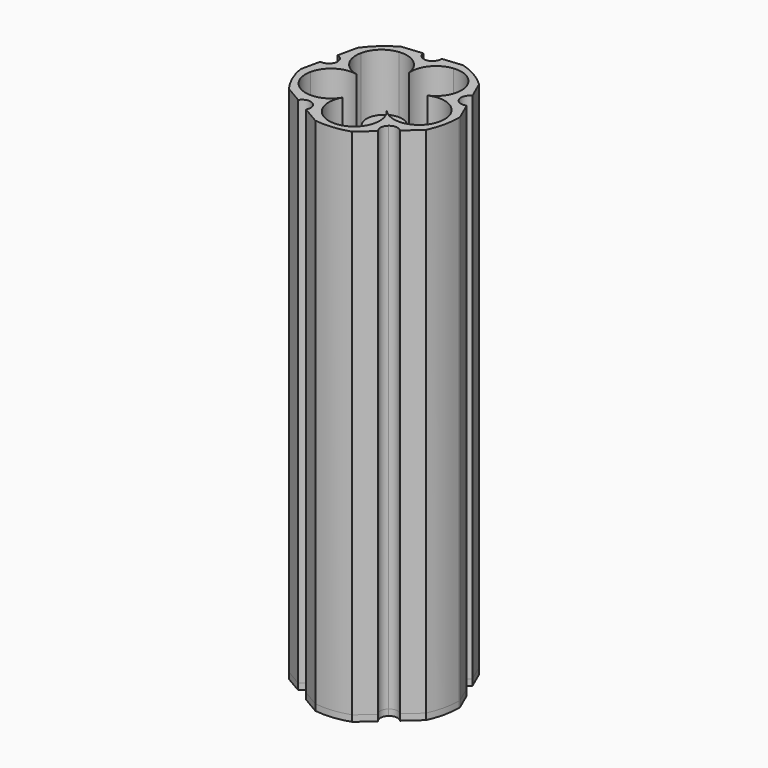
from build123d import *

# Parameters (mm, degrees)
F1_DEPTH = 83
F2_DEPTH = 1
F3_DEPTH = 78


with BuildPart() as f1:
    # F0 (on Top) → F1 (new body)
    with BuildSketch(Plane.XY):
        with BuildLine():
            Line((-10.3950891863, -1.9186980107), (-9.5171950704, 2.0862116958))
            ThreePointArc((-9.5171950704, 2.0862116958), (-10.1215255896, 1.2187611374), (-11.1622319686, 1.0327071659))
            Line((-11.1622319686, 1.0327071659), (-11.8627554285, -2.163046346))
            ThreePointArc((-11.8627554285, -2.163046346), (-11.0467790087, -4.8345019791), (-9.6380226836, -7.2465339717))
            Line((-9.6380226836, -7.2465339717), (-6.8151541357, -8.900313518))
            ThreePointArc((-6.8151541357, -8.900313518), (-5.9723446863, -8.2620673961), (-4.9250802493, -8.4067155171))
            Line((-4.9250802493, -8.4067155171), (-8.4626915502, -6.3342034206))
            ThreePointArc((-8.4626915502, -6.3342034206), (-10.1462327065, -4.4403877421), (-10.3950891863, -1.9186980107))
        make_face()
        with BuildLine():
            Line((-1.3874689708, -10.4792276005), (-4.9250802493, -8.4067155171))
            ThreePointArc((-4.9250802493, -8.4067155171), (-4.4248837763, -8.9117006172), (-4.2420111599, -9.5985514519))
            ThreePointArc((-4.2420111599, -9.5985514519), (-4.290220206, -9.9602956665), (-4.431482253, -10.2967893857))
            Line((-4.431482253, -10.2967893857), (-1.6086137051, -11.950568932))
            ThreePointArc((-1.6086137051, -11.950568932), (1.1842421634, -12.0000544311), (3.9135505529, -11.405606425))
            Line((3.9135505529, -11.405606425), (6.3587027212, -9.2319448826))
            ThreePointArc((6.3587027212, -9.2319448826), (6.0121370154, -8.2331568272), (6.4733276858, -7.2818479742))
            Line((6.4733276858, -7.2818479742), (3.4090699315, -10.005874447))
            ThreePointArc((3.4090699315, -10.005874447), (1.0877013618, -11.0217960053), (-1.3874689708, -10.4792276005))
        make_face()
        with BuildLine():
            ThreePointArc((-2.8525682403, -4.8691043398), (-5.3541979477, -6.7635484333), (-8.4626915502, -6.3342034206))
            Line((-8.4626915502, -6.3342034206), (-4.9250802493, -8.4067155171))
            Line((-4.9250802493, -8.4067155171), (-1.3874689708, -10.4792276005))
            ThreePointArc((-1.3874689708, -10.4792276005), (-3.2819131484, -7.9775979567), (-2.8525682403, -4.8691043398))
        make_face()
        with BuildLine():
            ThreePointArc((9.537586204, -4.5578208223), (6.5729795774, -5.5864982283), (3.7493013379, -4.2175895912))
            ThreePointArc((3.7493013379, -4.2175895912), (4.5173700035, -5.4844716194), (4.7850431192, -6.9416163107))
            ThreePointArc((4.7850431192, -6.9416163107), (4.4252643647, -8.6211236893), (3.4090699315, -10.005874447))
            Line((3.4090699315, -10.005874447), (6.4733276858, -7.2818479742))
            Line((6.4733276858, -7.2818479742), (9.537586204, -4.5578208223))
        make_face()
        with BuildLine():
            Line((8.9258170342, 3.9062861541), (7.2820214155, 7.6623394177))
            ThreePointArc((7.2820214155, 7.6623394177), (7.5390603878, 6.8582406834), (7.6259681692, 6.0185438065))
            ThreePointArc((7.6259681692, 6.0185438065), (6.9574082172, 3.7746143965), (5.1697636829, 2.2624905175))
            ThreePointArc((5.1697636829, 2.2624905175), (8.3071510394, 2.3247070778), (10.5696126379, 0.1502329252))
            Line((10.5696126379, 0.1502329252), (8.9258170342, 3.9062861541))
        make_face()
        with BuildLine():
            Line((-0.9568697851, 9.6960652567), (-5.0370494624, 9.2934070157))
            ThreePointArc((-5.0370494624, 9.2934070157), (-2.0339908159, 8.3830723867), (-0.5542115132, 5.6158854419))
            ThreePointArc((-0.5542115132, 5.6158854419), (0.3561230261, 8.6189441157), (3.1233099266, 10.098723501))
            Line((3.1233099266, 10.098723501), (-0.9568697851, 9.6960652567))
        make_face()
        with BuildLine():
            ThreePointArc((-5.5122853186, 1.2083175905), (-8.0870549248, 3.0020933722), (-8.6393009458, 6.0911214414))
            Line((-8.6393009458, 6.0911214414), (-9.5171950704, 2.0862116958))
            Line((-9.5171950704, 2.0862116958), (-10.3950891863, -1.9186980107))
            ThreePointArc((-10.3950891863, -1.9186980107), (-8.6013133908, 0.6560715859), (-5.5122853186, 1.2083175905))
        make_face()
        with BuildLine():
            ThreePointArc((-8.6393009458, 6.0911214414), (-7.3584180322, 8.2774854574), (-5.0370494624, 9.2934070157))
            Line((-5.0370494624, 9.2934070157), (-0.9568697851, 9.6960652567))
            ThreePointArc((-0.9568697851, 9.6960652567), (-1.9686126936, 10.0027607695), (-2.4671564939, 10.9350375146))
            Line((-2.4671564939, 10.9350375146), (-5.72297235, 10.6137327709))
            ThreePointArc((-5.72297235, 10.6137327709), (-8.011527057, 9.0121678894), (-9.8701761557, 6.9270021298))
            Line((-9.8701761557, 6.9270021298), (-10.5706996156, 3.7312486179))
            ThreePointArc((-10.5706996156, 3.7312486179), (-9.7902332374, 3.2478489051), (-9.4851587577, 2.3819778919))
            ThreePointArc((-9.4851587577, 2.3819778919), (-9.4931911905, 2.2332298095), (-9.5171950704, 2.0862116958))
            Line((-9.5171950704, 2.0862116958), (-8.6393009458, 6.0911214414))
        make_face()
        with BuildLine():
            ThreePointArc((0.2887800316, 11.0706947495), (-0.0689564404, 10.1431644658), (-0.9568697851, 9.6960652567))
            Line((-0.9568697851, 9.6960652567), (3.1233099266, 10.098723501))
            ThreePointArc((3.1233099266, 10.098723501), (5.5984802592, 9.5561550962), (7.2820214155, 7.6623394177))
            Line((7.2820214155, 7.6623394177), (8.9258170342, 3.9062861541))
            ThreePointArc((8.9258170342, 3.9062861541), (8.9048560265, 4.9632849819), (9.6374453998, 5.7255176864))
            Line((9.6374453998, 5.7255176864), (8.3257639995, 8.722693946))
            ThreePointArc((8.3257639995, 8.722693946), (6.0953829856, 10.404328047), (3.5379183444, 11.5276567281))
            Line((3.5379183444, 11.5276567281), (0.2821024884, 11.2063519844))
            ThreePointArc((0.2821024884, 11.2063519844), (0.2871096358, 11.1386054905), (0.2887800316, 11.0706947495))
        make_face()
        with BuildLine():
            ThreePointArc((10.7450485417, 3.1946577983), (9.6880497312, 3.1736967981), (8.9258170342, 3.9062861541))
            Line((8.9258170342, 3.9062861541), (10.5696126379, 0.1502329252))
            ThreePointArc((10.5696126379, 0.1502329252), (10.8266516102, -0.653865809), (10.9135593917, -1.493562686))
            ThreePointArc((10.9135593917, -1.493562686), (10.5537806372, -3.1730700646), (9.537586204, -4.5578208223))
            Line((9.537586204, -4.5578208223), (6.4733276858, -7.2818479742))
            ThreePointArc((6.4733276858, -7.2818479742), (7.4721161232, -6.9352819289), (8.4234253157, -7.3964729812))
            Line((8.4234253157, -7.3964729812), (10.868577484, -5.2228114389))
            ThreePointArc((10.868577484, -5.2228114389), (11.7571428527, -2.6783068892), (12.0583471443, 0))
            ThreePointArc((12.0583471443, 0), (12.0579428369, 0.0987440802), (12.056729942, 0.1974815387))
            Line((12.056729942, 0.1974815387), (10.7450485417, 3.1946577983))
        make_face()
    extrude(amount=F1_DEPTH)

    # F0 (on Top) → F2 (join)
    with BuildSketch(Plane.XY):
        with BuildLine():
            Line((-10.3950891863, -1.9186980107), (-9.5171950704, 2.0862116958))
            ThreePointArc((-9.5171950704, 2.0862116958), (-10.1215255896, 1.2187611374), (-11.1622319686, 1.0327071659))
            Line((-11.1622319686, 1.0327071659), (-11.8627554285, -2.163046346))
            ThreePointArc((-11.8627554285, -2.163046346), (-11.0467790087, -4.8345019791), (-9.6380226836, -7.2465339717))
            Line((-9.6380226836, -7.2465339717), (-6.8151541357, -8.900313518))
            ThreePointArc((-6.8151541357, -8.900313518), (-5.9723446863, -8.2620673961), (-4.9250802493, -8.4067155171))
            Line((-4.9250802493, -8.4067155171), (-8.4626915502, -6.3342034206))
            ThreePointArc((-8.4626915502, -6.3342034206), (-10.1462327065, -4.4403877421), (-10.3950891863, -1.9186980107))
        make_face()
        with BuildLine():
            Line((-1.3874689708, -10.4792276005), (-4.9250802493, -8.4067155171))
            ThreePointArc((-4.9250802493, -8.4067155171), (-4.4248837763, -8.9117006172), (-4.2420111599, -9.5985514519))
            ThreePointArc((-4.2420111599, -9.5985514519), (-4.290220206, -9.9602956665), (-4.431482253, -10.2967893857))
            Line((-4.431482253, -10.2967893857), (-1.6086137051, -11.950568932))
            ThreePointArc((-1.6086137051, -11.950568932), (1.1842421634, -12.0000544311), (3.9135505529, -11.405606425))
            Line((3.9135505529, -11.405606425), (6.3587027212, -9.2319448826))
            ThreePointArc((6.3587027212, -9.2319448826), (6.0121370154, -8.2331568272), (6.4733276858, -7.2818479742))
            Line((6.4733276858, -7.2818479742), (3.4090699315, -10.005874447))
            ThreePointArc((3.4090699315, -10.005874447), (1.0877013618, -11.0217960053), (-1.3874689708, -10.4792276005))
        make_face()
        with BuildLine():
            ThreePointArc((-2.8525682403, -4.8691043398), (-5.3541979477, -6.7635484333), (-8.4626915502, -6.3342034206))
            Line((-8.4626915502, -6.3342034206), (-4.9250802493, -8.4067155171))
            Line((-4.9250802493, -8.4067155171), (-1.3874689708, -10.4792276005))
            ThreePointArc((-1.3874689708, -10.4792276005), (-3.2819131484, -7.9775979567), (-2.8525682403, -4.8691043398))
        make_face()
        with BuildLine():
            ThreePointArc((-2.6341262483, -1.1527964414), (-3.7897791282, 0.3732529936), (-5.5122853186, 1.2083175905))
            ThreePointArc((-5.5122853186, 1.2083175905), (-8.6013133908, 0.6560715859), (-10.3950891863, -1.9186980107))
            ThreePointArc((-10.3950891863, -1.9186980107), (-10.1462327065, -4.4403877421), (-8.4626915502, -6.3342034206))
            ThreePointArc((-8.4626915502, -6.3342034206), (-5.3541979477, -6.7635484333), (-2.8525682403, -4.8691043398))
            ThreePointArc((-2.8525682403, -4.8691043398), (-2.4332737246, -3.8703225435), (-2.2901794603, -2.7965921309))
            ThreePointArc((-2.2901794603, -2.7965921309), (-2.3770872504, -1.9568952121), (-2.6341262483, -1.1527964414))
        make_face()
        with BuildLine():
            ThreePointArc((2.8753366285, 0), (2.4946679145, 1.4297526792), (1.4534560019, 2.4809325621))
            ThreePointArc((1.4534560019, 2.4809325621), (-0.2823849464, 2.8614366093), (-1.9103644453, 2.1489691513))
            ThreePointArc((-1.9103644453, 2.1489691513), (-2.8086496619, 0.6156685828), (-2.6341262483, -1.1527964414))
            ThreePointArc((-2.6341262483, -1.1527964414), (-1.4534561135, -2.4809324967), (0.2823848827, -2.8614366156))
            ThreePointArc((0.2823848827, -2.8614366156), (1.9103644135, -2.1489691795), (2.8086496678, -0.6156685559))
            ThreePointArc((2.8086496678, -0.6156685559), (2.8586162731, -0.3096348339), (2.8753366285, 0))
        make_face()
        with BuildLine():
            ThreePointArc((9.537586204, -4.5578208223), (6.5729795774, -5.5864982283), (3.7493013379, -4.2175895912))
            ThreePointArc((3.7493013379, -4.2175895912), (4.5173700035, -5.4844716194), (4.7850431192, -6.9416163107))
            ThreePointArc((4.7850431192, -6.9416163107), (4.4252643647, -8.6211236893), (3.4090699315, -10.005874447))
            Line((3.4090699315, -10.005874447), (6.4733276858, -7.2818479742))
            Line((6.4733276858, -7.2818479742), (9.537586204, -4.5578208223))
        make_face()
        with BuildLine():
            ThreePointArc((2.8086496678, -0.6156685559), (1.9103644135, -2.1489691795), (0.2823848827, -2.8614366156))
            ThreePointArc((0.2823848827, -2.8614366156), (2.1786348772, -3.12334659), (3.7493013379, -4.2175895912))
            ThreePointArc((3.7493013379, -4.2175895912), (2.846603121, -2.5295443205), (2.8086496678, -0.6156685559))
        make_face()
        with BuildLine():
            ThreePointArc((3.7493013379, -4.2175895912), (2.1786348772, -3.12334659), (0.2823848827, -2.8614366156))
            ThreePointArc((0.2823848827, -2.8614366156), (-1.5260908761, -3.4889526354), (-2.8525682403, -4.8691043398))
            ThreePointArc((-2.8525682403, -4.8691043398), (-3.2819131484, -7.9775979567), (-1.3874689708, -10.4792276005))
            ThreePointArc((-1.3874689708, -10.4792276005), (1.0877013618, -11.0217960053), (3.4090699315, -10.005874447))
            ThreePointArc((3.4090699315, -10.005874447), (4.4252643647, -8.6211236893), (4.7850431192, -6.9416163107))
            ThreePointArc((4.7850431192, -6.9416163107), (4.5173700035, -5.4844716194), (3.7493013379, -4.2175895912))
        make_face()
        with BuildLine():
            ThreePointArc((10.5696126379, 0.1502329252), (8.3071510394, 2.3247070778), (5.1697636829, 2.2624905175))
            ThreePointArc((5.1697636829, 2.2624905175), (3.6437142568, 1.1068376333), (2.8086496678, -0.6156685559))
            ThreePointArc((2.8086496678, -0.6156685559), (2.846603121, -2.5295443205), (3.7493013379, -4.2175895912))
            ThreePointArc((3.7493013379, -4.2175895912), (6.5729795774, -5.5864982283), (9.537586204, -4.5578208223))
            ThreePointArc((9.537586204, -4.5578208223), (10.5537806372, -3.1730700646), (10.9135593917, -1.493562686))
            ThreePointArc((10.9135593917, -1.493562686), (10.8266516102, -0.653865809), (10.5696126379, 0.1502329252))
        make_face()
        with BuildLine():
            ThreePointArc((3.1233099266, 10.098723501), (0.3561230261, 8.6189441157), (-0.5542115132, 5.6158854419))
            ThreePointArc((-0.5542115132, 5.6158854419), (0.0733044672, 3.8074098529), (1.4534560019, 2.4809325621))
            ThreePointArc((1.4534560019, 2.4809325621), (3.285388195, 1.9256082736), (5.1697636829, 2.2624905175))
            ThreePointArc((5.1697636829, 2.2624905175), (6.9574082172, 3.7746143965), (7.6259681692, 6.0185438065))
            ThreePointArc((7.6259681692, 6.0185438065), (7.5390603878, 6.8582406834), (7.2820214155, 7.6623394177))
            ThreePointArc((7.2820214155, 7.6623394177), (5.5984802592, 9.5561550962), (3.1233099266, 10.098723501))
        make_face()
        with BuildLine():
            ThreePointArc((-0.5542115132, 5.6158854419), (-2.0339908159, 8.3830723867), (-5.0370494624, 9.2934070157))
            ThreePointArc((-5.0370494624, 9.2934070157), (-7.3584180322, 8.2774854574), (-8.6393009458, 6.0911214414))
            ThreePointArc((-8.6393009458, 6.0911214414), (-8.0870549248, 3.0020933722), (-5.5122853186, 1.2083175905))
            ThreePointArc((-5.5122853186, 1.2083175905), (-3.5984096544, 1.2462710325), (-1.9103644453, 2.1489691513))
            ThreePointArc((-1.9103644453, 2.1489691513), (-0.8941699847, 3.5337199196), (-0.5343912198, 5.2132273212))
            ThreePointArc((-0.5343912198, 5.2132273212), (-0.539349291, 5.4148001407), (-0.5542115132, 5.6158854419))
        make_face()
        with BuildLine():
            Line((8.9258170342, 3.9062861541), (7.2820214155, 7.6623394177))
            ThreePointArc((7.2820214155, 7.6623394177), (7.5390603878, 6.8582406834), (7.6259681692, 6.0185438065))
            ThreePointArc((7.6259681692, 6.0185438065), (6.9574082172, 3.7746143965), (5.1697636829, 2.2624905175))
            ThreePointArc((5.1697636829, 2.2624905175), (8.3071510394, 2.3247070778), (10.5696126379, 0.1502329252))
            Line((10.5696126379, 0.1502329252), (8.9258170342, 3.9062861541))
        make_face()
        with BuildLine():
            ThreePointArc((5.1697636829, 2.2624905175), (3.285388195, 1.9256082736), (1.4534560019, 2.4809325621))
            ThreePointArc((1.4534560019, 2.4809325621), (2.4946679145, 1.4297526792), (2.8753366285, 0))
            ThreePointArc((2.8753366285, 0), (2.8586162731, -0.3096348339), (2.8086496678, -0.6156685559))
            ThreePointArc((2.8086496678, -0.6156685559), (3.6437142568, 1.1068376333), (5.1697636829, 2.2624905175))
        make_face()
        with BuildLine():
            Line((-0.9568697851, 9.6960652567), (-5.0370494624, 9.2934070157))
            ThreePointArc((-5.0370494624, 9.2934070157), (-2.0339908159, 8.3830723867), (-0.5542115132, 5.6158854419))
            ThreePointArc((-0.5542115132, 5.6158854419), (0.3561230261, 8.6189441157), (3.1233099266, 10.098723501))
            Line((3.1233099266, 10.098723501), (-0.9568697851, 9.6960652567))
        make_face()
        with BuildLine():
            ThreePointArc((-5.5122853186, 1.2083175905), (-8.0870549248, 3.0020933722), (-8.6393009458, 6.0911214414))
            Line((-8.6393009458, 6.0911214414), (-9.5171950704, 2.0862116958))
            Line((-9.5171950704, 2.0862116958), (-10.3950891863, -1.9186980107))
            ThreePointArc((-10.3950891863, -1.9186980107), (-8.6013133908, 0.6560715859), (-5.5122853186, 1.2083175905))
        make_face()
        with BuildLine():
            ThreePointArc((-1.9103644453, 2.1489691513), (-3.5984096544, 1.2462710325), (-5.5122853186, 1.2083175905))
            ThreePointArc((-5.5122853186, 1.2083175905), (-3.7897791282, 0.3732529936), (-2.6341262483, -1.1527964414))
            ThreePointArc((-2.6341262483, -1.1527964414), (-2.8086496619, 0.6156685828), (-1.9103644453, 2.1489691513))
        make_face()
        with BuildLine():
            ThreePointArc((1.4534560019, 2.4809325621), (0.0733044672, 3.8074098529), (-0.5542115132, 5.6158854419))
            ThreePointArc((-0.5542115132, 5.6158854419), (-0.539349291, 5.4148001407), (-0.5343912198, 5.2132273212))
            ThreePointArc((-0.5343912198, 5.2132273212), (-0.8941699847, 3.5337199196), (-1.9103644453, 2.1489691513))
            ThreePointArc((-1.9103644453, 2.1489691513), (-0.2823849464, 2.8614366093), (1.4534560019, 2.4809325621))
        make_face()
        with BuildLine():
            ThreePointArc((0.2823848827, -2.8614366156), (-1.4534561135, -2.4809324967), (-2.6341262483, -1.1527964414))
            ThreePointArc((-2.6341262483, -1.1527964414), (-2.3770872504, -1.9568952121), (-2.2901794603, -2.7965921309))
            ThreePointArc((-2.2901794603, -2.7965921309), (-2.4332737246, -3.8703225435), (-2.8525682403, -4.8691043398))
            ThreePointArc((-2.8525682403, -4.8691043398), (-1.5260908761, -3.4889526354), (0.2823848827, -2.8614366156))
        make_face()
        with BuildLine():
            ThreePointArc((-8.6393009458, 6.0911214414), (-7.3584180322, 8.2774854574), (-5.0370494624, 9.2934070157))
            Line((-5.0370494624, 9.2934070157), (-0.9568697851, 9.6960652567))
            ThreePointArc((-0.9568697851, 9.6960652567), (-1.9686126936, 10.0027607695), (-2.4671564939, 10.9350375146))
            Line((-2.4671564939, 10.9350375146), (-5.72297235, 10.6137327709))
            ThreePointArc((-5.72297235, 10.6137327709), (-8.011527057, 9.0121678894), (-9.8701761557, 6.9270021298))
            Line((-9.8701761557, 6.9270021298), (-10.5706996156, 3.7312486179))
            ThreePointArc((-10.5706996156, 3.7312486179), (-9.7902332374, 3.2478489051), (-9.4851587577, 2.3819778919))
            ThreePointArc((-9.4851587577, 2.3819778919), (-9.4931911905, 2.2332298095), (-9.5171950704, 2.0862116958))
            Line((-9.5171950704, 2.0862116958), (-8.6393009458, 6.0911214414))
        make_face()
        with BuildLine():
            ThreePointArc((0.2887800316, 11.0706947495), (-0.0689564404, 10.1431644658), (-0.9568697851, 9.6960652567))
            Line((-0.9568697851, 9.6960652567), (3.1233099266, 10.098723501))
            ThreePointArc((3.1233099266, 10.098723501), (5.5984802592, 9.5561550962), (7.2820214155, 7.6623394177))
            Line((7.2820214155, 7.6623394177), (8.9258170342, 3.9062861541))
            ThreePointArc((8.9258170342, 3.9062861541), (8.9048560265, 4.9632849819), (9.6374453998, 5.7255176864))
            Line((9.6374453998, 5.7255176864), (8.3257639995, 8.722693946))
            ThreePointArc((8.3257639995, 8.722693946), (6.0953829856, 10.404328047), (3.5379183444, 11.5276567281))
            Line((3.5379183444, 11.5276567281), (0.2821024884, 11.2063519844))
            ThreePointArc((0.2821024884, 11.2063519844), (0.2871096358, 11.1386054905), (0.2887800316, 11.0706947495))
        make_face()
        with BuildLine():
            ThreePointArc((10.7450485417, 3.1946577983), (9.6880497312, 3.1736967981), (8.9258170342, 3.9062861541))
            Line((8.9258170342, 3.9062861541), (10.5696126379, 0.1502329252))
            ThreePointArc((10.5696126379, 0.1502329252), (10.8266516102, -0.653865809), (10.9135593917, -1.493562686))
            ThreePointArc((10.9135593917, -1.493562686), (10.5537806372, -3.1730700646), (9.537586204, -4.5578208223))
            Line((9.537586204, -4.5578208223), (6.4733276858, -7.2818479742))
            ThreePointArc((6.4733276858, -7.2818479742), (7.4721161232, -6.9352819289), (8.4234253157, -7.3964729812))
            Line((8.4234253157, -7.3964729812), (10.868577484, -5.2228114389))
            ThreePointArc((10.868577484, -5.2228114389), (11.7571428527, -2.6783068892), (12.0583471443, 0))
            ThreePointArc((12.0583471443, 0), (12.0579428369, 0.0987440802), (12.056729942, 0.1974815387))
            Line((12.056729942, 0.1974815387), (10.7450485417, 3.1946577983))
        make_face()
    extrude(amount=-F2_DEPTH)

    # F0 (on Top) → F3 (join)
    with BuildSketch(Plane.XY):
        with BuildLine():
            ThreePointArc((2.8753366285, 0), (2.4946679145, 1.4297526792), (1.4534560019, 2.4809325621))
            ThreePointArc((1.4534560019, 2.4809325621), (-0.2823849464, 2.8614366093), (-1.9103644453, 2.1489691513))
            ThreePointArc((-1.9103644453, 2.1489691513), (-2.8086496619, 0.6156685828), (-2.6341262483, -1.1527964414))
            ThreePointArc((-2.6341262483, -1.1527964414), (-1.4534561135, -2.4809324967), (0.2823848827, -2.8614366156))
            ThreePointArc((0.2823848827, -2.8614366156), (1.9103644135, -2.1489691795), (2.8086496678, -0.6156685559))
            ThreePointArc((2.8086496678, -0.6156685559), (2.8586162731, -0.3096348339), (2.8753366285, 0))
        make_face()
    extrude(amount=F3_DEPTH)


solid = f1.part
